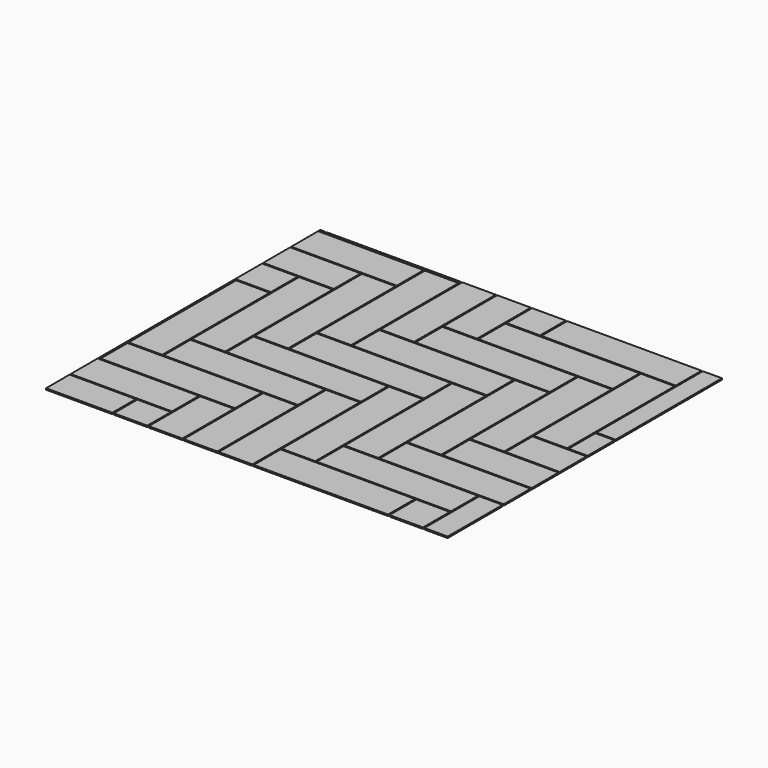
from build123d import *

# Parameters (mm, degrees)
F1_W     = 609.6
F1_H     = 152.4
F1_W_2   = 152.4
F1_H_2   = 609.6
F2_DEPTH = 6.35
F3_W     = 4289.612889
F3_H     = 4005.097747
F3_W_2   = 1822.45
F3_H_2   = 1555.75
F4_DEPTH = 6.351


with BuildPart() as f2:
    # F1 (on Top) → F2 (new body)
    with BuildSketch(Plane.XY):
        with Locations((1247.115459, 76.2)):
            Rectangle(F1_W, F1_H)
        with Locations((1018.515459, 463.55)):
            Rectangle(F1_W_2, F1_H_2)
        with Locations((1405.865459, 234.95)):
            Rectangle(F1_W, F1_H)
        with Locations((1177.265459, 622.3)):
            Rectangle(F1_W_2, F1_H_2)
        with Locations((859.765459, 304.8)):
            Rectangle(F1_W_2, F1_H_2)
        with Locations((472.415459, 533.4)):
            Rectangle(F1_W, F1_H)
        with Locations((701.015459, 146.05)):
            Rectangle(F1_W_2, F1_H_2)
        with Locations((313.665459, 374.65)):
            Rectangle(F1_W, F1_H)
        with Locations((542.265459, -12.7)):
            Rectangle(F1_W_2, F1_H_2)
        with Locations((154.915459, 215.9)):
            Rectangle(F1_W, F1_H)
        with Locations((383.515459, -171.45)):
            Rectangle(F1_W_2, F1_H_2)
        with Locations((224.765459, -330.2)):
            Rectangle(F1_W_2, F1_H_2)
        with Locations((-3.834541, 57.15)):
            Rectangle(F1_W, F1_H)
        with Locations((631.165459, 692.15)):
            Rectangle(F1_W, F1_H)
        with Locations((789.915459, 850.9)):
            Rectangle(F1_W, F1_H)
        with Locations((948.665459, 1009.65)):
            Rectangle(F1_W, F1_H)
        with Locations((1564.615459, 393.7)):
            Rectangle(F1_W, F1_H)
        with Locations((1336.015459, 781.05)):
            Rectangle(F1_W_2, F1_H_2)
        with Locations((1723.365459, 552.45)):
            Rectangle(F1_W, F1_H)
        with Locations((1494.765459, 939.8)):
            Rectangle(F1_W_2, F1_H_2)
        with Locations((1882.115459, 711.2)):
            Rectangle(F1_W, F1_H)
        with Locations((1107.415459, 1168.4)):
            Rectangle(F1_W, F1_H)
        with Locations((1653.515459, 1098.55)):
            Rectangle(F1_W_2, F1_H_2)
        with Locations((2040.865459, 869.95)):
            Rectangle(F1_W, F1_H)
        with Locations((1266.165459, 1327.15)):
            Rectangle(F1_W, F1_H)
        with Locations((878.815459, 1555.75)):
            Rectangle(F1_W_2, F1_H_2)
        with Locations((720.065459, 1397)):
            Rectangle(F1_W_2, F1_H_2)
        with Locations((561.315459, 1238.25)):
            Rectangle(F1_W_2, F1_H_2)
        with Locations((402.565459, 1079.5)):
            Rectangle(F1_W_2, F1_H_2)
        with Locations((243.815459, 920.75)):
            Rectangle(F1_W_2, F1_H_2)
        with Locations((85.065459, 762)):
            Rectangle(F1_W_2, F1_H_2)
        with Locations((1634.465459, -152.4)):
            Rectangle(F1_W_2, F1_H_2)
        with Locations((1793.215459, 6.35)):
            Rectangle(F1_W_2, F1_H_2)
        with Locations((1951.965459, 165.1)):
            Rectangle(F1_W_2, F1_H_2)
        with Locations((-73.684541, 603.25)):
            Rectangle(F1_W_2, F1_H_2)
        with Locations((1037.565459, 1714.5)):
            Rectangle(F1_W_2, F1_H_2)
        with Locations((1424.915459, 1485.9)):
            Rectangle(F1_W, F1_H)
        with Locations((-232.434541, 444.5)):
            Rectangle(F1_W_2, F1_H_2)
        with Locations((-461.034541, 831.85)):
            Rectangle(F1_W, F1_H)
        with Locations((-302.284541, 990.6)):
            Rectangle(F1_W, F1_H)
        with Locations((-143.534541, 1149.35)):
            Rectangle(F1_W, F1_H)
        with Locations((15.215459, 1308.1)):
            Rectangle(F1_W, F1_H)
        with Locations((173.965459, 1466.85)):
            Rectangle(F1_W, F1_H)
        with Locations((332.715459, 1625.6)):
            Rectangle(F1_W, F1_H)
        with Locations((-54.634541, 1854.2)):
            Rectangle(F1_W_2, F1_H_2)
        with Locations((-213.384541, 1695.45)):
            Rectangle(F1_W_2, F1_H_2)
        with Locations((1812.265459, 1257.3)):
            Rectangle(F1_W_2, F1_H_2)
    extrude(amount=F2_DEPTH)

    # F3 (on Top) → F4 (cut, through all)
    with BuildSketch(Plane.XY):
        with Locations((857.388675, 780.000746)):
            Rectangle(F3_W, F3_H)
        with Locations((911.225, 777.875)):
            Rectangle(F3_W_2, F3_H_2, mode=Mode.SUBTRACT)
    extrude(amount=F4_DEPTH, mode=Mode.SUBTRACT)


solid = f2.part
